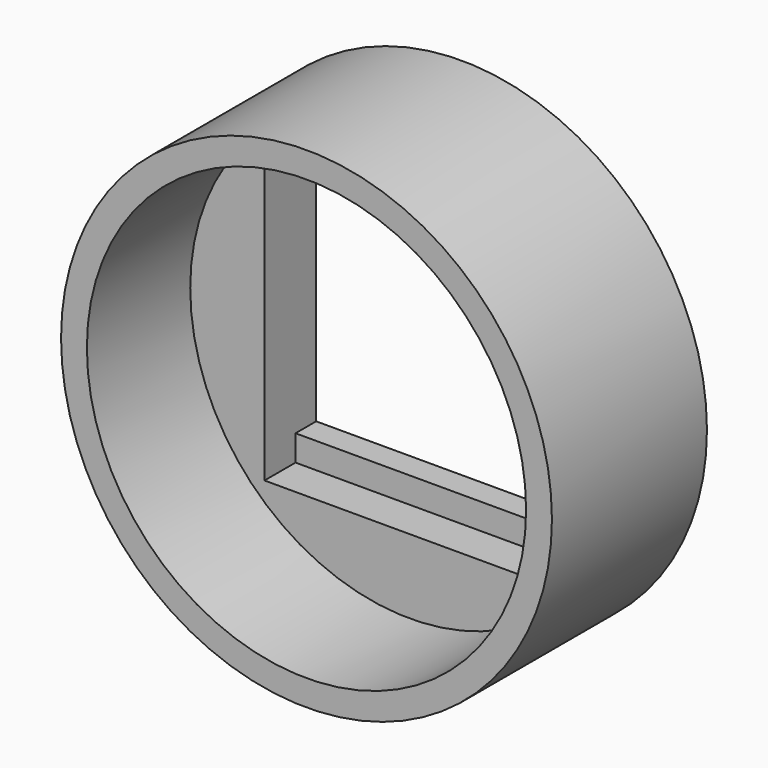
from build123d import *

# Parameters (mm, degrees)
F0_R     = 17
F1_DEPTH = 5
F0_R_2   = 19
F0_W     = 22.5
F0_H     = 2
F2_DEPTH = 2
F3_DEPTH = 2
F4_DEPTH = 15


with BuildPart() as f1:
    # F0 (on Front) → F1 (new body)
    with BuildSketch(Plane.XZ):
        Circle(F0_R)
        Polygon((11.25, -9.25), (11.25, -11.25), (-11.25, -11.25), (-11.25, -9.25), (-11.25, 9.25), (-11.25, 11.25), (11.25, 11.25), (11.25, 9.25), align=None, mode=Mode.SUBTRACT)
    extrude(amount=F1_DEPTH)

    # F0 (on Front) → F2 (join)
    with BuildSketch(Plane.XZ):
        Circle(F0_R_2)
        Circle(F0_R, mode=Mode.SUBTRACT)
        Circle(F0_R)
        Polygon((11.25, -9.25), (11.25, -11.25), (-11.25, -11.25), (-11.25, -9.25), (-11.25, 9.25), (-11.25, 11.25), (11.25, 11.25), (11.25, 9.25), align=None, mode=Mode.SUBTRACT)
        with Locations((0, 10.25)):
            Rectangle(F0_W, F0_H)
        with Locations((0, -10.25)):
            Rectangle(F0_W, F0_H)
    extrude(amount=F2_DEPTH)

    # F0 (on Front) → F3 (join)
    with BuildSketch(Plane.XZ):
        with Locations((0, -10.25)):
            Rectangle(F0_W, F0_H)
    extrude(amount=F3_DEPTH)

    # F0 (on Front) → F4 (join)
    with BuildSketch(Plane.XZ):
        Circle(F0_R_2)
        Circle(F0_R, mode=Mode.SUBTRACT)
    extrude(amount=F4_DEPTH)


solid = f1.part
